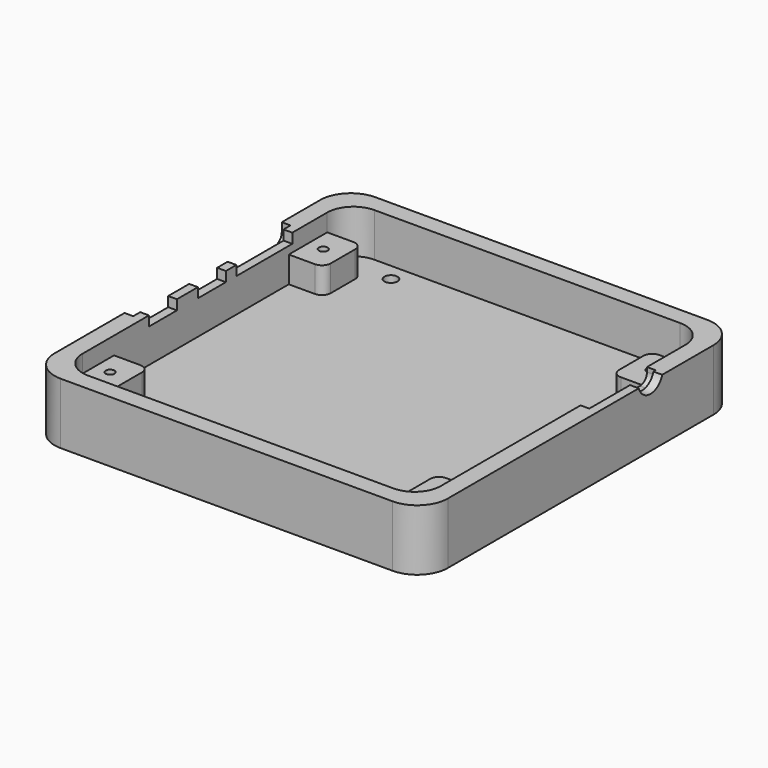
from build123d import *

# Parameters (mm, degrees)
CYLINDER005_R     = 1
CYLINDER005_DEPTH = 8
BOX014_W          = 8
BOX014_H          = 11
BOX014_DEPTH      = 6
FILLET006_R       = 2
CYLINDER006_R     = 1
CYLINDER006_DEPTH = 9
BOX013_W          = 8
BOX013_H          = 11
BOX013_DEPTH      = 6
FILLET005_R       = 2
CYLINDER004_R     = 1
CYLINDER004_DEPTH = 8
BOX011_W          = 8
BOX011_H          = 11
BOX011_DEPTH      = 6
FILLET004_R       = 2
CYLINDER003_R     = 1
CYLINDER003_DEPTH = 8
BOX009_W          = 8
BOX009_H          = 11
BOX009_DEPTH      = 6
FILLET003_R       = 2
BOX024_W          = 2
BOX024_H          = 45
BOX024_DEPTH      = 8
FILLET007_R       = 2
BOX023_W          = 6
BOX023_H          = 8
BOX023_DEPTH      = 3
CYLINDER008_R     = 1.5
CYLINDER008_DEPTH = 10
CYLINDER009_R     = 1.5
CYLINDER009_DEPTH = 10
CYLINDER010_R     = 1.5
CYLINDER010_DEPTH = 10
CYLINDER007_R     = 1.5
CYLINDER007_DEPTH = 10
BOX018_W          = 6
BOX018_H          = 8
BOX018_DEPTH      = 3
BOX015_W          = 16
BOX015_H          = 16
BOX015_DEPTH      = 2.25
CYLINDER002_R     = 3.5
CYLINDER002_DEPTH = 10.5
BOX010_W          = 2
BOX010_H          = 19
BOX010_DEPTH      = 8
FILLET002_R       = 2
BOX008_W          = 90
BOX008_H          = 90
BOX008_DEPTH      = 14
BOX006_W          = 82
BOX006_H          = 82
BOX006_DEPTH      = 82
FILLET001_R       = 6
BOX005_W          = 90
BOX005_H          = 90
BOX005_DEPTH      = 90
FILLET_R          = 7
CHAMFER_SIZE      = 1.5


with BuildPart() as cylinder002:
    # Cylinder005 → Cylinder005 (new body)
    with BuildSketch(Plane(origin=(82.5, 74.5, 4), x_dir=(1, 0, 0), z_dir=(0, 0, 1))):
        Circle(CYLINDER005_R)
    extrude(amount=CYLINDER005_DEPTH)


with BuildPart() as cut003:
    # Box014 → Box014 (new body)
    with BuildSketch(Plane(origin=(78, 8, 4), x_dir=(1, 0, 0), z_dir=(0, 0, 1))):
        with Locations((4, 5.5)):
            Rectangle(BOX014_W, BOX014_H)
    extrude(amount=BOX014_DEPTH)

    # Fillet006
    fillet006_edges = [cut003.edges().sort_by_distance(p)[0] for p in [
        (78, 8, 7),
        (78, 19, 7),
    ]]
    fillet(fillet006_edges, radius=FILLET006_R)


with BuildPart() as cut003_1:
    # Fillet006 placement: moved
    add(cut003.part.moved(Location((0, 61, 0))))

    # Cut003: cut Cylinder002
    add(cylinder002.part, mode=Mode.SUBTRACT)


with BuildPart() as cylinder003:
    # Cylinder006 → Cylinder006 (new body)
    with BuildSketch(Plane(origin=(82.5, 13.5, 4), x_dir=(1, 0, 0), z_dir=(0, 0, 1))):
        Circle(CYLINDER006_R)
    extrude(amount=CYLINDER006_DEPTH)


with BuildPart() as cut004:
    # Box013 → Box013 (new body)
    with BuildSketch(Plane(origin=(78, 8, 4), x_dir=(1, 0, 0), z_dir=(0, 0, 1))):
        with Locations((4, 5.5)):
            Rectangle(BOX013_W, BOX013_H)
    extrude(amount=BOX013_DEPTH)

    # Fillet005
    fillet005_edges = [cut004.edges().sort_by_distance(p)[0] for p in [
        (78, 8, 7),
        (78, 19, 7),
    ]]
    fillet(fillet005_edges, radius=FILLET005_R)

    # Cut004: cut Cylinder003
    add(cylinder003.part, mode=Mode.SUBTRACT)


with BuildPart() as cylinder001:
    # Cylinder004 → Cylinder004 (new body)
    with BuildSketch(Plane(origin=(7.5, 74.5, 4), x_dir=(1, 0, 0), z_dir=(0, 0, 1))):
        Circle(CYLINDER004_R)
    extrude(amount=CYLINDER004_DEPTH)


with BuildPart() as cut005:
    # Box011 → Box011 (new body)
    with BuildSketch(Plane(origin=(4, 8, 3), x_dir=(1, 0, 0), z_dir=(0, 0, 1))):
        with Locations((4, 5.5)):
            Rectangle(BOX011_W, BOX011_H)
    extrude(amount=BOX011_DEPTH)

    # Fillet004
    fillet004_edges = [cut005.edges().sort_by_distance(p)[0] for p in [
        (12, 8, 6),
        (12, 19, 6),
    ]]
    fillet(fillet004_edges, radius=FILLET004_R)


with BuildPart() as cut005_1:
    # Fillet004 placement: moved
    add(cut005.part.moved(Location((0, 61, 1))))

    # Cut005: cut Cylinder001
    add(cylinder001.part, mode=Mode.SUBTRACT)


with BuildPart() as cylinder:
    # Cylinder003 → Cylinder003 (new body)
    with BuildSketch(Plane(origin=(7.5, 13.5, 4), x_dir=(1, 0, 0), z_dir=(0, 0, 1))):
        Circle(CYLINDER003_R)
    extrude(amount=CYLINDER003_DEPTH)


with BuildPart() as cut006:
    # Box009 → Box009 (new body)
    with BuildSketch(Plane(origin=(4, 8, 3), x_dir=(1, 0, 0), z_dir=(0, 0, 1))):
        with Locations((4, 5.5)):
            Rectangle(BOX009_W, BOX009_H)
    extrude(amount=BOX009_DEPTH)

    # Fillet003
    fillet003_edges = [cut006.edges().sort_by_distance(p)[0] for p in [
        (12, 8, 6),
        (12, 19, 6),
    ]]
    fillet(fillet003_edges, radius=FILLET003_R)


with BuildPart() as cut006_1:
    # Fillet003 placement: moved
    add(cut006.part.moved(Location((0, 0, 1))))

    # Cut006: cut Cylinder
    add(cylinder.part, mode=Mode.SUBTRACT)


with BuildPart() as fillet007:
    # Box024 → Box024 (new body)
    with BuildSketch(Plane(origin=(0, 27, 10), x_dir=(1, 0, 0), z_dir=(0, 0, 1))):
        with Locations((1, 22.5)):
            Rectangle(BOX024_W, BOX024_H)
    extrude(amount=BOX024_DEPTH)

    # Fillet007
    fillet007_edges = [fillet007.edges().sort_by_distance(p)[0] for p in [
        (1, 27, 10),
        (1, 27, 18),
        (1, 72, 10),
        (1, 72, 18),
    ]]
    fillet(fillet007_edges, radius=FILLET007_R)


with BuildPart() as uart001:
    # Box023 → Box023 (new body)
    with BuildSketch(Plane(origin=(0, 43, 11.75), x_dir=(1, 0, 0), z_dir=(0, 0, 1))):
        with Locations((3, 4)):
            Rectangle(BOX023_W, BOX023_H)
    extrude(amount=BOX023_DEPTH)


with BuildPart() as cylinder005:
    # Cylinder008 → Cylinder008 (new body)
    with BuildSketch(Plane(origin=(17, 7, 0), x_dir=(1, 0, 0), z_dir=(0, 0, 1))):
        Circle(CYLINDER008_R)
    extrude(amount=CYLINDER008_DEPTH)


with BuildPart() as cylinder006:
    # Cylinder009 → Cylinder009 (new body)
    with BuildSketch(Plane(origin=(17, 82, 0), x_dir=(1, 0, 0), z_dir=(0, 0, 1))):
        Circle(CYLINDER009_R)
    extrude(amount=CYLINDER009_DEPTH)


with BuildPart() as cylinder007:
    # Cylinder010 → Cylinder010 (new body)
    with BuildSketch(Plane(origin=(73, 82, 0), x_dir=(1, 0, 0), z_dir=(0, 0, 1))):
        Circle(CYLINDER010_R)
    extrude(amount=CYLINDER010_DEPTH)


with BuildPart() as cylinder004:
    # Cylinder007 → Cylinder007 (new body)
    with BuildSketch(Plane(origin=(73, 7, 0), x_dir=(1, 0, 0), z_dir=(0, 0, 1))):
        Circle(CYLINDER007_R)
    extrude(amount=CYLINDER007_DEPTH)


with BuildPart() as power001:
    # Box018 → Box018 (new body)
    with BuildSketch(Plane(origin=(0, 29, 11.75), x_dir=(1, 0, 0), z_dir=(0, 0, 1))):
        with Locations((3, 4)):
            Rectangle(BOX018_W, BOX018_H)
    extrude(amount=BOX018_DEPTH)


with BuildPart() as sd001:
    # Box015 → Box015 (new body)
    with BuildSketch(Plane(origin=(0, 54, 11.75), x_dir=(1, 0, 0), z_dir=(0, 0, 1))):
        with Locations((8, 8)):
            Rectangle(BOX015_W, BOX015_H)
    extrude(amount=BOX015_DEPTH)


with BuildPart() as headphone001:
    # Cylinder002 → Cylinder002 (new body)
    with BuildSketch(Plane(origin=(80, 65, 15), x_dir=(0, 0, -1), z_dir=(1, 0, 0))):
        Circle(CYLINDER002_R)
    extrude(amount=CYLINDER002_DEPTH)


with BuildPart() as fillet002:
    # Box010 → Box010 (new body)
    with BuildSketch(Plane(origin=(86, 50, 11), x_dir=(1, 0, 0), z_dir=(0, 0, 1))):
        with Locations((1, 9.5)):
            Rectangle(BOX010_W, BOX010_H)
    extrude(amount=BOX010_DEPTH)

    # Fillet002
    fillet002_edges = [fillet002.edges().sort_by_distance(p)[0] for p in [
        (87, 50, 11),
        (87, 50, 19),
        (87, 69, 11),
        (87, 69, 19),
    ]]
    fillet(fillet002_edges, radius=FILLET002_R)


with BuildPart() as cube003:
    # Box008 → Box008 (new body)
    with BuildSketch(Plane.XY):
        with Locations((45, 45)):
            Rectangle(BOX008_W, BOX008_H)
    extrude(amount=BOX008_DEPTH)


with BuildPart() as fillet001:
    # Box006 → Box006 (new body)
    with BuildSketch(Plane.XY):
        with Locations((41, 41)):
            Rectangle(BOX006_W, BOX006_H)
    extrude(amount=BOX006_DEPTH)

    # Fillet001
    fillet001_edges = [fillet001.edges().sort_by_distance(p)[0] for p in [
        (0, 0, 41),
        (0, 41, 82),
        (0, 82, 41),
        (82, 0, 41),
        (82, 41, 82),
        (82, 82, 41),
        (41, 0, 82),
        (41, 82, 82),
    ]]
    fillet(fillet001_edges, radius=FILLET001_R)


with BuildPart() as fillet001_1:
    # Fillet001 placement: moved
    add(fillet001.part.moved(Location((4, 4, 4))))


with BuildPart() as bottom001:
    # Box005 → Box005 (new body)
    with BuildSketch(Plane.XY):
        with Locations((45, 45)):
            Rectangle(BOX005_W, BOX005_H)
    extrude(amount=BOX005_DEPTH)

    # Fillet
    fillet_edges = [bottom001.edges().sort_by_distance(p)[0] for p in [
        (0, 0, 45),
        (0, 45, 90),
        (0, 90, 45),
        (90, 0, 45),
        (90, 45, 90),
        (90, 90, 45),
        (45, 0, 90),
        (45, 90, 90),
    ]]
    fillet(fillet_edges, radius=FILLET_R)

    # Cut: cut Fillet001
    add(fillet001_1.part, mode=Mode.SUBTRACT)

    # Common: intersect Cube003
    add(cube003.part, mode=Mode.INTERSECT)

    # Cut001: cut Fillet002
    add(fillet002.part, mode=Mode.SUBTRACT)

    # Cut002: cut Headphone001
    add(headphone001.part, mode=Mode.SUBTRACT)

    # Cut007: cut sd001
    add(sd001.part, mode=Mode.SUBTRACT)

    # Cut008: cut power001
    add(power001.part, mode=Mode.SUBTRACT)

    # Cut009: cut Cylinder004
    add(cylinder004.part, mode=Mode.SUBTRACT)

    # Cut010: cut Cylinder007
    add(cylinder007.part, mode=Mode.SUBTRACT)

    # Cut011: cut Cylinder006
    add(cylinder006.part, mode=Mode.SUBTRACT)

    # Cut012: cut Cylinder005
    add(cylinder005.part, mode=Mode.SUBTRACT)

    # Cut013: cut uart001
    add(uart001.part, mode=Mode.SUBTRACT)

    # Cut014: cut Fillet007
    add(fillet007.part, mode=Mode.SUBTRACT)

    # Chamfer
    chamfer_edges = [bottom001.edges().sort_by_distance(p)[0] for p in [
        (15.5, 82, 0),
        (15.5, 7, 0),
        (71.5, 7, 0),
        (71.5, 82, 0),
    ]]
    chamfer(chamfer_edges, length=CHAMFER_SIZE)

    # Fusion: union Cut003, Cut004, Cut005, Cut006
    add(cut003_1.part)
    add(cut004.part)
    add(cut005_1.part)
    add(cut006_1.part)


with BuildPart() as bottom001_1:
    # Fusion placement: moved
    add(bottom001.part.moved(Location((0, 0, -20))))


solid = bottom001_1.part
